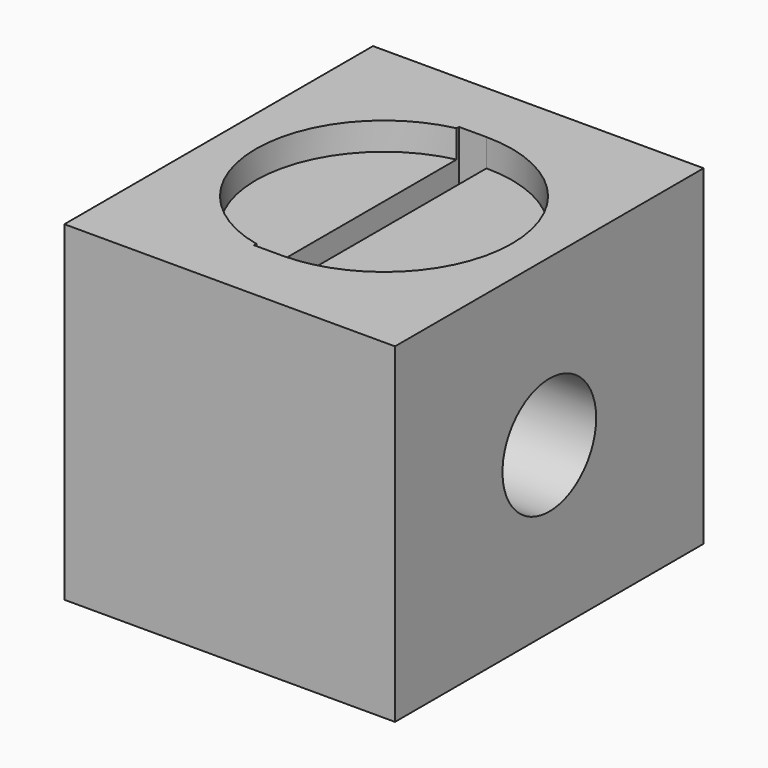
from build123d import *

# Parameters (mm, degrees)
SKETCH052_W          = 12
SKETCH052_H          = 14
PAD011_DEPTH         = 6
POCKET024_DEPTH      = 1
POCKET025_DEPTH      = 5.001
SKETCH055_R          = 2.125
POCKET026_DEPTH      = 6.001
POCKET026_DEPTH_BACK = 6.001
SKETCH056_R          = 4.65
POCKET027_DEPTH      = 1


with BuildPart() as part:
    # Sketch052 → Pad011 (new body, symmetric)
    with BuildSketch(Plane.XY):
        Rectangle(SKETCH052_W, SKETCH052_H)
    extrude(amount=PAD011_DEPTH, both=True)

    # Sketch053 → Pocket024 (cut)
    with BuildSketch(Plane.YZ):
        with BuildLine():
            ThreePointArc((-4.65, 0), (0, -4.65), (4.65, 0))
            Line((4.65, 0), (4.65, 10))
            Line((4.65, 10), (-4.65, 10))
            Line((-4.65, 10), (-4.65, 0))
        make_face()
    extrude(amount=-POCKET024_DEPTH, mode=Mode.SUBTRACT)

    # Sketch054 → Pocket025 (cut, through all)
    with BuildSketch(Plane.YZ.offset(-1)):
        Polygon((0, 4.0414518843), (-3.5, 2.0207259422), (-3.5, -2.0207259422), (0, -4.0414518843), (3.5, -2.0207259422), (3.5, 2.0207259422), align=None)
    extrude(amount=-POCKET025_DEPTH, mode=Mode.SUBTRACT)

    # Sketch055 → Pocket026 (cut, two sides)
    with BuildSketch(Plane.YZ) as pocket026_sk:
        Circle(SKETCH055_R)
    extrude(amount=-POCKET026_DEPTH, mode=Mode.SUBTRACT)
    extrude(pocket026_sk.sketch, amount=POCKET026_DEPTH_BACK, mode=Mode.SUBTRACT)

    # Sketch056 → Pocket027 (cut)
    with BuildSketch(Plane.XY.offset(6)):
        Circle(SKETCH056_R)
    extrude(amount=-POCKET027_DEPTH, mode=Mode.SUBTRACT)


solid = part.part
